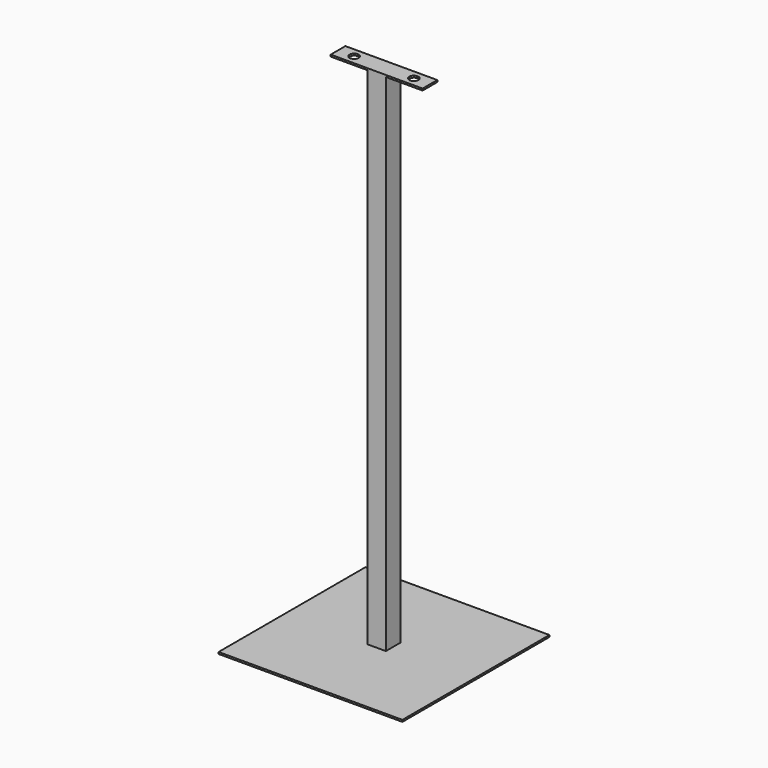
from build123d import *

# Parameters (mm, degrees)
F0_W     = 400
F0_H     = 400
F1_DEPTH = 4
F2_W     = 40
F2_H     = 40
F3_DEPTH = 1100
F4_W     = 200
F4_H     = 40
F5_DEPTH = 4
F8_D     = 20
F8_DEPTH = 20
F9_D     = 20
F9_DEPTH = 20


with BuildPart() as f1:
    # F0 (on Top) → F1 (new body)
    with BuildSketch(Plane.XY):
        Rectangle(F0_W, F0_H)
    extrude(amount=F1_DEPTH)

    # F2 (on face) → F3 (join)
    with BuildSketch(Plane.XY.offset(4)):
        Rectangle(F2_W, F2_H)
    extrude(amount=F3_DEPTH)

    # F4 (on face) → F5 (join)
    with BuildSketch(Plane.XY.offset(1104)):
        Rectangle(F4_W, F4_H)
    extrude(amount=F5_DEPTH)

    # F8
    with Locations(Plane.XY.offset(1108)):
        with Locations((-65, 0)):
            Hole(F8_D / 2, depth=F8_DEPTH)

    # F9
    with Locations(Plane.XY.offset(1108)):
        with Locations((65, 0)):
            Hole(F9_D / 2, depth=F9_DEPTH)


solid = f1.part
